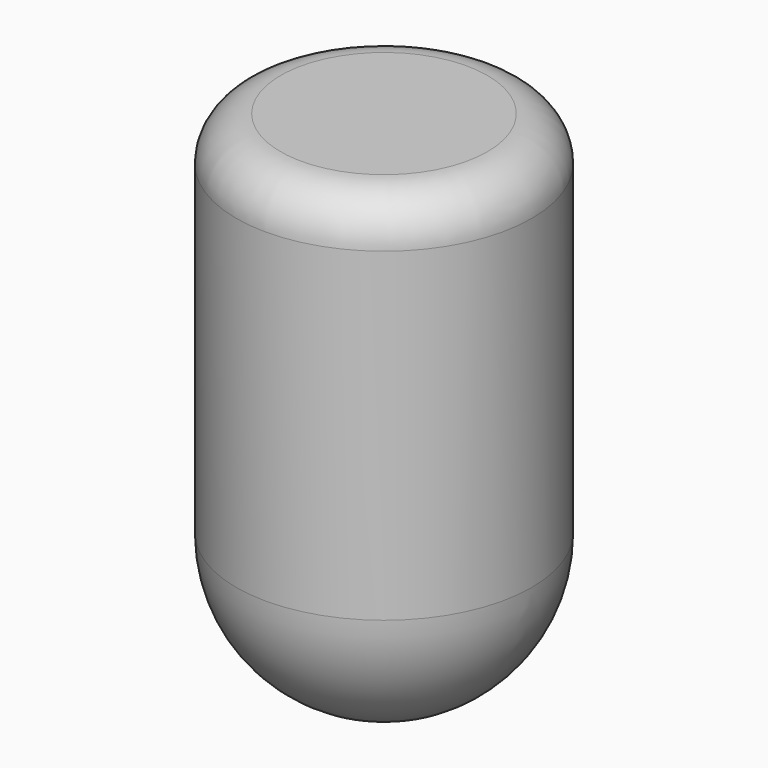
from build123d import *

# Parameters (mm, degrees)
CYLINDER007_R     = 100
CYLINDER007_DEPTH = 350
FILLET012_1_R     = 100
FILLET012_2_R     = 30


with BuildPart() as part:
    # Cylinder007 → Cylinder007 (new body)
    with BuildSketch(Plane(origin=(-350, 0, 1730), x_dir=(1, 0, 0), z_dir=(0, 0, 1))):
        Circle(CYLINDER007_R)
    extrude(amount=CYLINDER007_DEPTH)

    # Fillet012 1
    fillet012_1_edges = [part.edges().sort_by_distance(p)[0] for p in [
        (-450, 0, 1730),
    ]]
    fillet(fillet012_1_edges, radius=FILLET012_1_R)

    # Fillet012 2
    fillet012_2_edges = [part.edges().sort_by_distance(p)[0] for p in [
        (-450, 0, 2080),
    ]]
    fillet(fillet012_2_edges, radius=FILLET012_2_R)


solid = part.part
